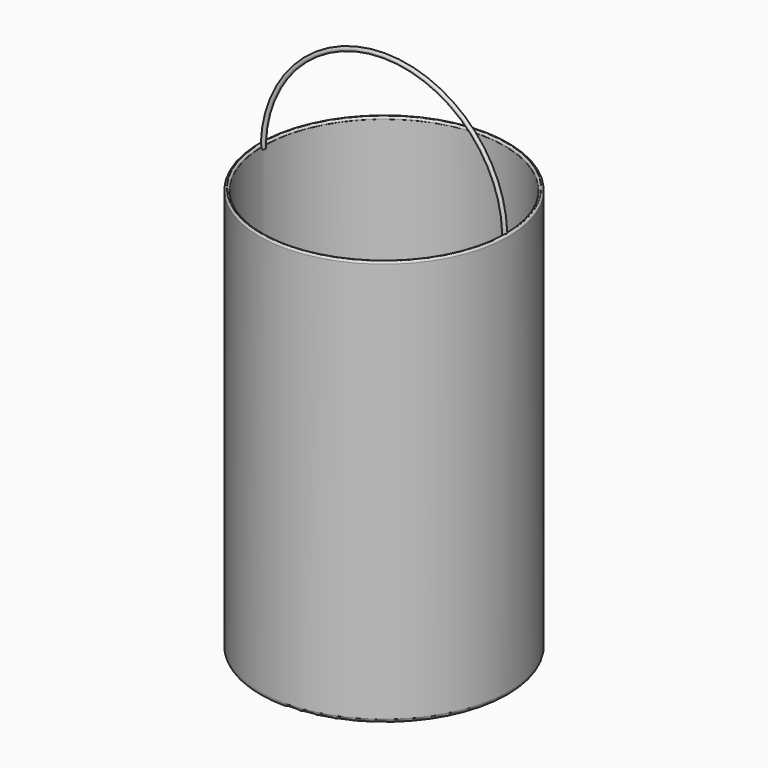
from build123d import *

# Parameters (mm, degrees)
F5_R     = 2.5
F6_ANGLE = -180


with BuildPart() as f1:
    # F0 (on Front) → F1 (revolve)
    with BuildSketch(Plane.XZ):
        with BuildLine():
            Line((0, 5), (0, 0))
            Line((0, 0), (150, 0))
            ThreePointArc((150, 0), (153.535534, 1.464466), (155, 5))
            Line((155, 5), (155, 502.5))
            ThreePointArc((155, 502.5), (154.267767, 504.267767), (152.5, 505))
            ThreePointArc((152.5, 505), (150.732233, 504.267767), (150, 502.5))
            Line((150, 502.5), (150, 10))
            ThreePointArc((150, 10), (148.535534, 6.464466), (145, 5))
            Line((145, 5), (0, 5))
        make_face()
    revolve(axis=Axis((0, 0, 2.5), (0, 0, 1)))

    # F5 (on offset) → F6 (revolve)
    with BuildSketch(Plane.XY.offset(500)):
        with Locations((150, 0)):
            Circle(F5_R)
    revolve(axis=Axis((0, 31.529061, 500), (0, 1, 0)), revolution_arc=F6_ANGLE)


solid = f1.part
